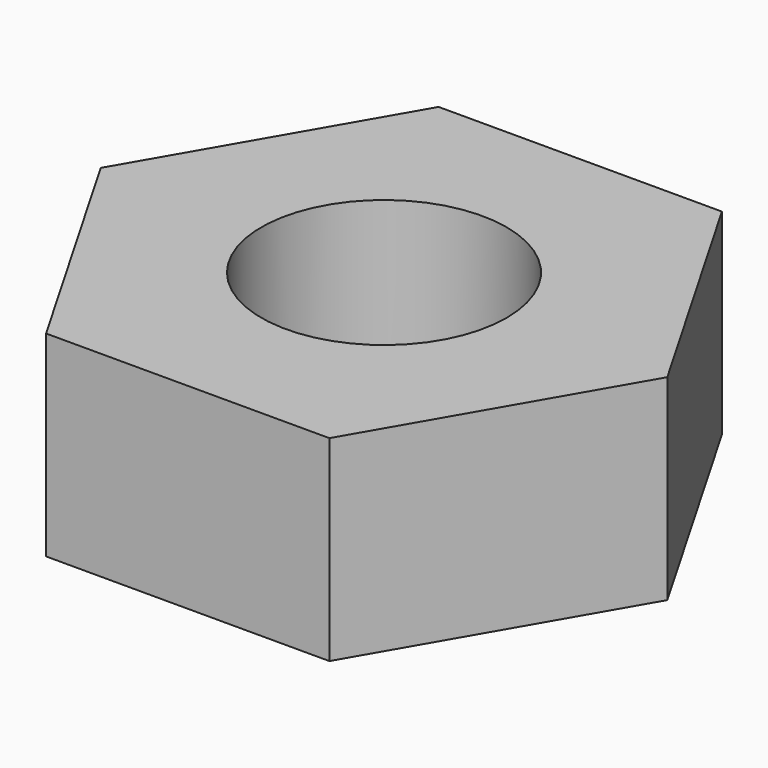
from build123d import *

# Parameters (mm, degrees)
SKETCH_R  = 1
PAD_DEPTH = 1.6


with BuildPart() as part:
    # Sketch → Pad (new body)
    with BuildSketch(Plane.XY):
        Polygon((-1.154701, 2), (-2.309401, 0), (-1.154701, -2), (1.154701, -2), (2.309401, 0), (1.154701, 2), align=None)
        Circle(SKETCH_R, mode=Mode.SUBTRACT)
    extrude(amount=PAD_DEPTH)


solid = part.part
